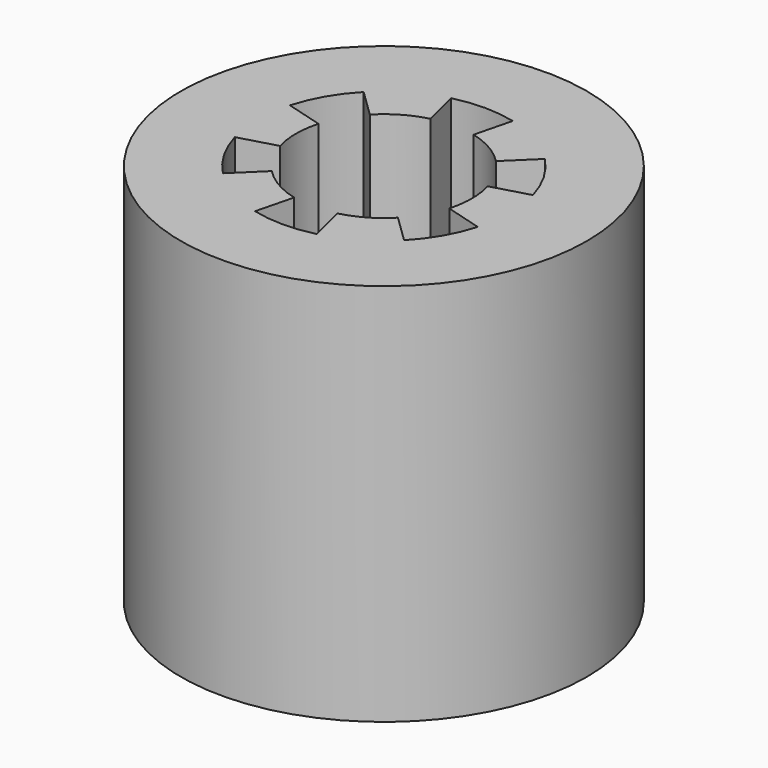
from build123d import *

# Parameters (mm, degrees)
F0_R     = 6.35
F1_DEPTH = 12


with BuildPart() as f1:
    # F0 (on Top) → F1 (new body)
    with BuildSketch(Plane.XY):
        with Locations((0, 0.103021)):
            Circle(F0_R)
        with BuildLine():
            ThreePointArc((-2.645654, -0.64732), (-2.75, 0.103021), (-2.645654, 0.853363))
            Line((-2.645654, 0.853363), (-3.800122, 1.180785))
            ThreePointArc((-3.800122, 1.180785), (-3.4208, 2.078021), (-2.833431, 2.855142))
            Line((-2.833431, 2.855142), (-1.972642, 2.019054))
            ThreePointArc((-1.972642, 2.019054), (-1.375, 2.484591), (-0.673012, 2.769396))
            Line((-0.673012, 2.769396), (-0.96669, 3.932905))
            ThreePointArc((-0.96669, 3.932905), (0, 4.053021), (0.96669, 3.932905))
            Line((0.96669, 3.932905), (0.673012, 2.769396))
            ThreePointArc((0.673012, 2.769396), (1.375, 2.484591), (1.972642, 2.019054))
            Line((1.972642, 2.019054), (2.833431, 2.855142))
            ThreePointArc((2.833431, 2.855142), (3.4208, 2.078021), (3.800122, 1.180785))
            Line((3.800122, 1.180785), (2.645654, 0.853363))
            ThreePointArc((2.645654, 0.853363), (2.75, 0.103021), (2.645654, -0.64732))
            Line((2.645654, -0.64732), (3.800122, -0.974742))
            ThreePointArc((3.800122, -0.974742), (3.4208, -1.871979), (2.833431, -2.649099))
            Line((2.833431, -2.649099), (1.972642, -1.813012))
            ThreePointArc((1.972642, -1.813012), (1.375, -2.278549), (0.673012, -2.563353))
            Line((0.673012, -2.563353), (0.96669, -3.726862))
            ThreePointArc((0.96669, -3.726862), (0, -3.846979), (-0.96669, -3.726862))
            Line((-0.96669, -3.726862), (-0.673012, -2.563353))
            ThreePointArc((-0.673012, -2.563353), (-1.375, -2.278549), (-1.972642, -1.813012))
            Line((-1.972642, -1.813012), (-2.833431, -2.649099))
            ThreePointArc((-2.833431, -2.649099), (-3.4208, -1.871979), (-3.800122, -0.974742))
            Line((-3.800122, -0.974742), (-2.645654, -0.64732))
        make_face(mode=Mode.SUBTRACT)
    extrude(amount=F1_DEPTH)


solid = f1.part
